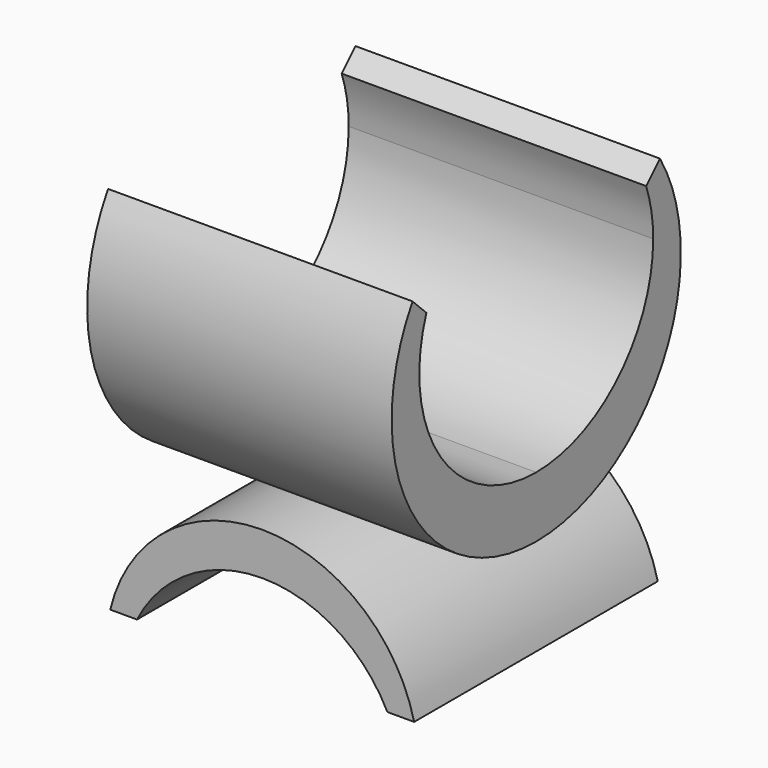
from build123d import *

# Parameters (mm, degrees)
F1_DEPTH = 12.5
F3_DEPTH = 12.5


with BuildPart() as f1:
    # F0 (on Right) → F1 (new body, symmetric)
    with BuildSketch(Plane.YZ):
        with BuildLine():
            Line((0, -17), (0, -12))
            ThreePointArc((0, -12), (-9.8315408875, -6.8804653751), (-11.2742627767, 4.1098660371))
            Line((-11.2742627767, 4.1098660371), (-12.6953165638, 5.5172061289))
            ThreePointArc((-12.6953165638, 5.5172061289), (-12.9247401764, -9.4495895167), (0, -17))
        make_face()
        with BuildLine():
            ThreePointArc((11.2742627767, 4.1098660371), (11.8171729555, 2.0867255066), (12, 0))
            ThreePointArc((12, 0), (8.4852813742, -8.4852813742), (0, -12))
            Line((0, -12), (0, -17))
            ThreePointArc((0, -17), (12.9247401764, -9.4495895167), (12.6953165638, 5.5172061289))
            Line((12.6953165638, 5.5172061289), (11.2742627767, 4.1098660371))
        make_face()
    extrude(amount=F1_DEPTH, both=True)

    # F2 (on Front) → F3 (join, symmetric)
    with BuildSketch(Plane.XZ):
        with BuildLine():
            ThreePointArc((0, -18.6252225989), (6.0382661769, -20.3380196492), (10.2778672238, -24.9662066724))
            Line((10.2778672238, -24.9662066724), (12.4753578975, -24.9662066724))
            ThreePointArc((12.4753578975, -24.9662066724), (7.944802109, -17.8816045994), (0, -15.1252225989))
            Line((0, -15.1252225989), (0, -18.6252225989))
        make_face()
        with BuildLine():
            Line((-12.4753578975, -24.9662066724), (-10.2778672238, -24.9662066724))
            ThreePointArc((-10.2778672238, -24.9662066724), (-6.0382661769, -20.3380196492), (0, -18.6252225989))
            Line((0, -18.6252225989), (0, -15.1252225989))
            ThreePointArc((0, -15.1252225989), (-7.944802109, -17.8816045994), (-12.4753578975, -24.9662066724))
        make_face()
    extrude(amount=F3_DEPTH, both=True)


solid = f1.part
